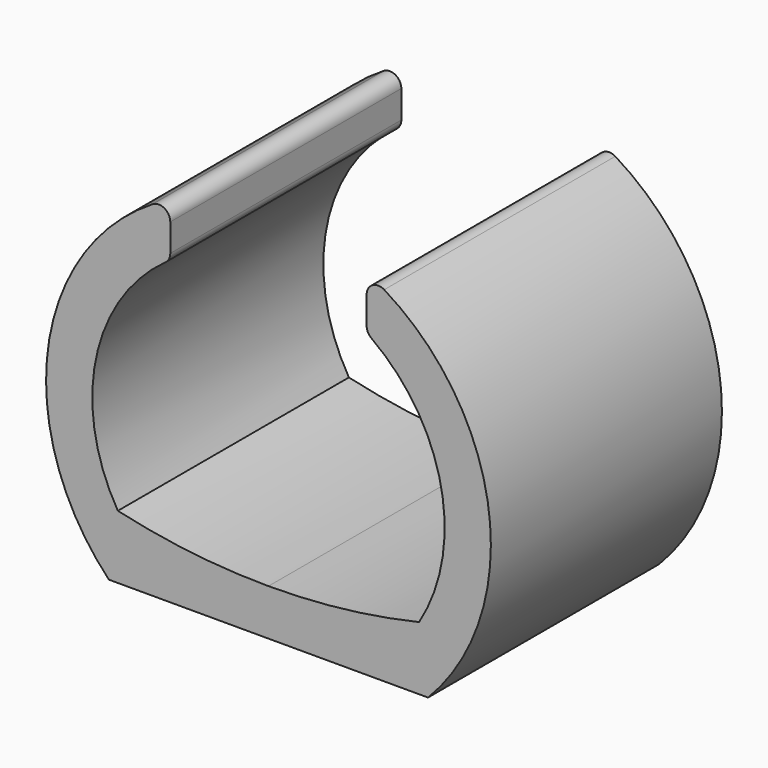
from build123d import *

# Parameters (mm, degrees)
F1_DEPTH = 25
F2_W     = 17
F2_H     = 6.5885427379
F3_DEPTH = 25.001
F4_R     = 1
F6_DEPTH = 25


with BuildPart() as f1:
    # F0 (on Front) → F1 (new body)
    with BuildSketch(Plane.XZ):
        with BuildLine():
            Line((-13.8099195907, -13.4107651124), (13.8099195907, -13.4107651124))
            ThreePointArc((13.8099195907, -13.4107651124), (0, 19.25), (-13.8099195907, -13.4107651124))
        make_face()
        with BuildLine():
            ThreePointArc((-12, -9.4107651124), (0, 15.25), (12, -9.4107651124))
            Line((12, -9.4107651124), (-12, -9.4107651124))
        make_face(mode=Mode.SUBTRACT)
    extrude(amount=F1_DEPTH)

    # F2 (on face) → F3 (cut, through all)
    with BuildSketch(Plane.XZ.offset(25)):
        with Locations((0, 15.9557286311)):
            Rectangle(F2_W, F2_H)
    extrude(amount=-F3_DEPTH, mode=Mode.SUBTRACT)

    # F4
    f4_edges = [f1.edges().sort_by_distance(p)[0] for p in [
        (-8.5, -12.5, 17.271725),
        (-8.5, -12.5, 12.661457),
        (8.5, -12.5, 17.271725),
        (8.5, -12.5, 12.661457),
    ]]
    fillet(f4_edges, radius=F4_R)

    # F5 (on face) → F6 (join, through all)
    with BuildSketch(Plane.XZ.offset(25)):
        with BuildLine():
            ThreePointArc((13.0377258499, -7.9107651124), (6.5618652017, -9.0345323104), (1.674e-07, -9.4107651124))
            Line((1.674e-07, -9.4107651124), (12, -9.4107651124))
            ThreePointArc((12, -9.4107651124), (12.5413089003, -8.6762936249), (13.0377258499, -7.9107651124))
        make_face()
        with BuildLine():
            ThreePointArc((1.674e-07, -9.4107651124), (-6.5618650354, -9.0345323295), (-13.0377258499, -7.9107651124))
            ThreePointArc((-13.0377258499, -7.9107651124), (-12.5413089003, -8.6762936249), (-12, -9.4107651124))
            Line((-12, -9.4107651124), (1.674e-07, -9.4107651124))
        make_face()
    extrude(amount=-F6_DEPTH)


solid = f1.part
